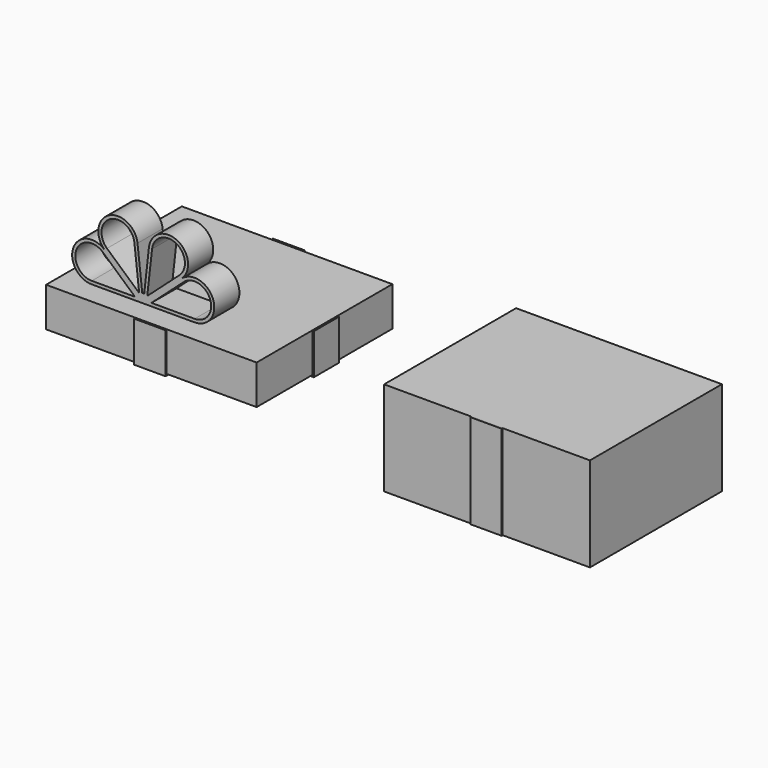
from build123d import *

# Parameters (mm, degrees)
F0_W     = 131
F0_H     = 105
F1_DEPTH = 60
F2_DEPTH = 25
F0_W_2   = 57
F0_H_2   = 44
F0_W_3   = 20
F0_H_3   = 20
F0_W_4   = 0.8
F0_W_5   = 0.4
F0_H_4   = 0.8
F0_H_5   = 0.4
F3_DEPTH = 0.8
F4_DEPTH = 25
F5_W     = 20
F5_H     = 60
F6_DEPTH = 0.8
F8_DEPTH = 20


with BuildPart() as f1:
    # F0 (on Top) → F1 (new body)
    with BuildSketch(Plane.XY):
        Rectangle(F0_W, F0_H)
    extrude(amount=F1_DEPTH)

    # F0 (on Top) → F2 (join)
    with BuildSketch(Plane.XY):
        Rectangle(F0_W, F0_H)
    extrude(amount=F2_DEPTH)


with BuildPart() as f2:
    # F0 (on Top) → F2, piece 2 (new body)
    with BuildSketch(Plane.XY):
        with Locations((-200.1639879942, 0.7772630274)):
            Rectangle(F0_W_2, F0_H_2)
        with Locations((-277.1639879942, 0.7772630274)):
            Rectangle(F0_W_2, F0_H_2)
        with Locations((-200.1639879942, 64.7772630274)):
            Rectangle(F0_W_2, F0_H_2)
        with Locations((-277.1639879942, 64.7772630274)):
            Rectangle(F0_W_2, F0_H_2)
        with Locations((-238.6639879942, 0.7772630274)):
            Rectangle(F0_W_3, F0_H_2)
        with Locations((-238.6639879942, 64.7772630274)):
            Rectangle(F0_W_3, F0_H_2)
        with Locations((-200.1639879942, 32.7772630274)):
            Rectangle(F0_W_2, F0_H_3)
        with Locations((-277.1639879942, 32.7772630274)):
            Rectangle(F0_W_2, F0_H_3)
        with Locations((-238.6639879942, 32.7772630274)):
            Rectangle(F0_W_3, F0_H_3)
    extrude(amount=F2_DEPTH)


with BuildPart() as f3:
    # F0 (on Top) → F3 (new body)
    with BuildSketch(Plane.XY):
        with Locations((-306.4639879942, 32.7772630274)):
            Rectangle(F0_W_4, F0_H_3)
        with Locations((-305.8639879942, 32.7772630274)):
            Rectangle(F0_W_5, F0_H_3)
        with Locations((-277.1639879942, 32.7772630274)):
            Rectangle(F0_W_2, F0_H_3)
        with Locations((-171.4639879942, 32.7772630274)):
            Rectangle(F0_W_5, F0_H_3)
        with Locations((-170.8639879942, 32.7772630274)):
            Rectangle(F0_W_4, F0_H_3)
        with Locations((-238.6639879942, 87.5772630274)):
            Rectangle(F0_W_3, F0_H_4)
        with Locations((-238.6639879942, 86.9772630274)):
            Rectangle(F0_W_3, F0_H_5)
        with Locations((-238.6639879942, -21.4227369726)):
            Rectangle(F0_W_3, F0_H_5)
        with Locations((-238.6639879942, -22.0227369726)):
            Rectangle(F0_W_3, F0_H_4)
        with Locations((-238.6639879942, 32.7772630274)):
            Rectangle(F0_W_3, F0_H_3)
        with Locations((-200.1639879942, 32.7772630274)):
            Rectangle(F0_W_2, F0_H_3)
        with Locations((-238.6639879942, 64.7772630274)):
            Rectangle(F0_W_3, F0_H_2)
        with Locations((-238.6639879942, 0.7772630274)):
            Rectangle(F0_W_3, F0_H_2)
    extrude(amount=-F3_DEPTH)

    # F0 (on Top) → F4 (join)
    with BuildSketch(Plane.XY):
        with Locations((-306.4639879942, 32.7772630274)):
            Rectangle(F0_W_4, F0_H_3)
        with Locations((-238.6639879942, 87.5772630274)):
            Rectangle(F0_W_3, F0_H_4)
        with Locations((-170.8639879942, 32.7772630274)):
            Rectangle(F0_W_4, F0_H_3)
        with Locations((-238.6639879942, -22.0227369726)):
            Rectangle(F0_W_3, F0_H_4)
    extrude(amount=F4_DEPTH)


with BuildPart() as f6:
    # F5 (on face) → F6 (new body)
    with BuildSketch(Plane.XZ.offset(52.5)):
        with Locations((0, 30)):
            Rectangle(F5_W, F5_H)
    extrude(amount=F6_DEPTH)


with BuildPart() as f8:
    # F7 (on Front) → F8 (new body)
    with BuildSketch(Plane.XZ):
        with BuildLine():
            Line((-248.9985047722, 37.5683713583), (-269.2148374575, 55.6489395324))
            ThreePointArc((-269.2148374575, 55.6489395324), (-289.2250390776, 50.7916934422), (-277.547794532, 33.8316531037))
            Line((-277.547794532, 33.8316531037), (-250.4257176805, 33.8316531037))
            ThreePointArc((-250.4257176805, 33.8316531037), (-250.3327097264, 34.8485258382), (-250.0567723832, 35.8316531037))
            ThreePointArc((-250.0567723832, 35.8316531037), (-249.60706278, 36.7484092929), (-248.9985047722, 37.5683713583))
        make_face()
        with BuildLine():
            Line((-270.5481105894, 54.1581737038), (-250.0567723832, 35.8316531037))
            Line((-250.0567723832, 35.8316531037), (-277.547794532, 35.8316531037))
            ThreePointArc((-277.547794532, 35.8316531037), (-287.3566799503, 50.078086988), (-270.5481105894, 54.1581737038))
        make_face(mode=Mode.SUBTRACT)
        with BuildLine():
            Line((-244.820387212, 33.8316531037), (-248.9985047722, 37.5683713583))
            ThreePointArc((-248.9985047722, 37.5683713583), (-249.60706278, 36.7484092929), (-250.0567723832, 35.8316531037))
            ThreePointArc((-250.0567723832, 35.8316531037), (-250.3327097264, 34.8485258382), (-250.4257176805, 33.8316531037))
            Line((-250.4257176805, 33.8316531037), (-244.820387212, 33.8316531037))
        make_face()
        with BuildLine():
            ThreePointArc((-247.3902261193, 38.8131847609), (-248.2512936846, 38.2643284175), (-248.9985047722, 37.5683713583))
            Line((-248.9985047722, 37.5683713583), (-244.820387212, 33.8316531037))
            Line((-244.820387212, 33.8316531037), (-245.44365163, 39.4022249887))
            ThreePointArc((-245.44365163, 39.4022249887), (-246.4438770669, 39.1967262954), (-247.3902261193, 38.8131847609))
        make_face()
        with BuildLine():
            ThreePointArc((-248.4593927251, 66.3561181841), (-266.612672978, 76.0751420302), (-269.2148374575, 55.6489395324))
            Line((-269.2148374575, 55.6489395324), (-248.9985047722, 37.5683713583))
            ThreePointArc((-248.9985047722, 37.5683713583), (-248.2512936846, 38.2643284175), (-247.3902261193, 38.8131847609))
            ThreePointArc((-247.3902261193, 38.8131847609), (-246.4438770669, 39.1967262954), (-245.44365163, 39.4022249887))
            Line((-245.44365163, 39.4022249887), (-248.4593927251, 66.3561181841))
        make_face()
        with BuildLine():
            Line((-250.4469907504, 66.1337354284), (-247.3902261193, 38.8131847609))
            Line((-247.3902261193, 38.8131847609), (-267.8815643255, 57.139705361))
            ThreePointArc((-267.8815643255, 57.139705361), (-265.6957461628, 74.2977154592), (-250.4469907504, 66.1337354284))
        make_face(mode=Mode.SUBTRACT)
        with BuildLine():
            Line((-241.1813816988, 66.3561181841), (-244.1971227939, 39.4022249887))
            ThreePointArc((-244.1971227939, 39.4022249887), (-243.196897357, 39.1967262954), (-242.2505483046, 38.8131847609))
            ThreePointArc((-242.2505483046, 38.8131847609), (-241.3894807393, 38.2643284175), (-240.6422696518, 37.5683713583))
            Line((-240.6422696518, 37.5683713583), (-220.4259369665, 55.6489395324))
            ThreePointArc((-220.4259369665, 55.6489395324), (-223.0281014459, 76.0751420302), (-241.1813816988, 66.3561181841))
        make_face()
        with BuildLine():
            Line((-221.7592100984, 57.139705361), (-242.2505483046, 38.8131847609))
            Line((-242.2505483046, 38.8131847609), (-239.1937836735, 66.1337354284))
            ThreePointArc((-239.1937836735, 66.1337354284), (-223.9450282611, 74.2977154592), (-221.7592100984, 57.139705361))
        make_face(mode=Mode.SUBTRACT)
        with BuildLine():
            Line((-244.1971227939, 39.4022249887), (-244.820387212, 33.8316531037))
            Line((-244.820387212, 33.8316531037), (-240.6422696518, 37.5683713583))
            ThreePointArc((-240.6422696518, 37.5683713583), (-241.3894807393, 38.2643284175), (-242.2505483046, 38.8131847609))
            ThreePointArc((-242.2505483046, 38.8131847609), (-243.196897357, 39.1967262954), (-244.1971227939, 39.4022249887))
        make_face()
        with BuildLine():
            ThreePointArc((-244.1971227939, 39.4022249887), (-244.820387212, 39.4369835722), (-245.44365163, 39.4022249887))
            Line((-245.44365163, 39.4022249887), (-244.820387212, 33.8316531037))
            Line((-244.820387212, 33.8316531037), (-244.1971227939, 39.4022249887))
        make_face()
        with BuildLine():
            Line((-240.6422696518, 37.5683713583), (-244.820387212, 33.8316531037))
            Line((-244.820387212, 33.8316531037), (-239.2150567434, 33.8316531037))
            ThreePointArc((-239.2150567434, 33.8316531037), (-239.3080646975, 34.8485258382), (-239.5840020407, 35.8316531037))
            ThreePointArc((-239.5840020407, 35.8316531037), (-240.0337116439, 36.7484092929), (-240.6422696518, 37.5683713583))
        make_face()
        with BuildLine():
            Line((-220.4259369665, 55.6489395324), (-240.6422696518, 37.5683713583))
            ThreePointArc((-240.6422696518, 37.5683713583), (-240.0337116439, 36.7484092929), (-239.5840020407, 35.8316531037))
            ThreePointArc((-239.5840020407, 35.8316531037), (-239.3080646975, 34.8485258382), (-239.2150567434, 33.8316531037))
            Line((-239.2150567434, 33.8316531037), (-212.0929798919, 33.8316531037))
            ThreePointArc((-212.0929798919, 33.8316531037), (-200.4157353463, 50.7916934422), (-220.4259369665, 55.6489395324))
        make_face()
        with BuildLine():
            Line((-212.0929798919, 35.8316531037), (-239.5840020407, 35.8316531037))
            Line((-239.5840020407, 35.8316531037), (-219.0926638345, 54.1581737038))
            ThreePointArc((-219.0926638345, 54.1581737038), (-202.2840944736, 50.078086988), (-212.0929798919, 35.8316531037))
        make_face(mode=Mode.SUBTRACT)
    extrude(amount=F8_DEPTH)


solid = Compound([f1.part, f2.part, f3.part, f6.part, f8.part])
